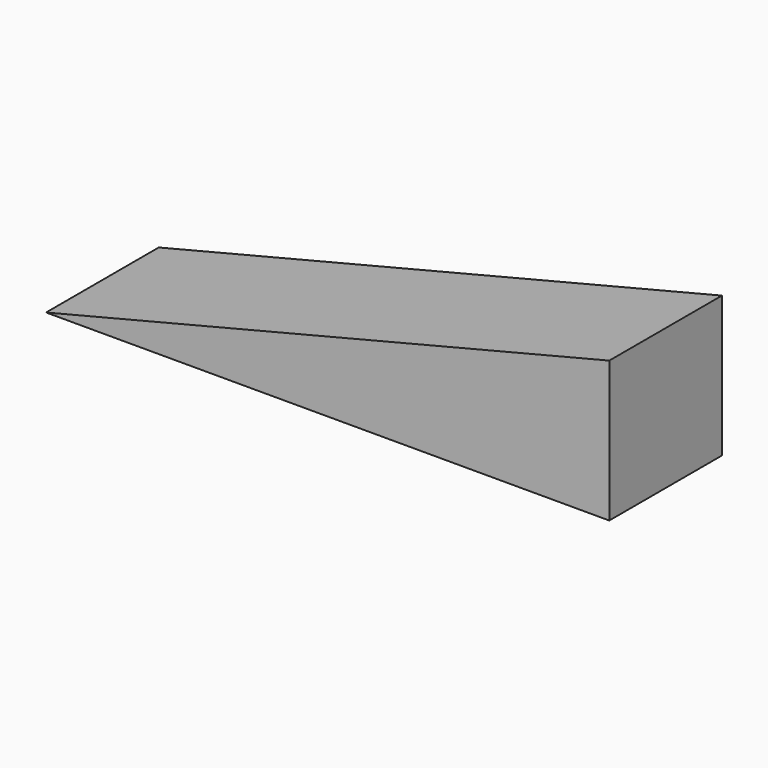
from build123d import *

# Parameters (mm, degrees)
F0_W     = 20
F0_H     = 5
F1_DEPTH = 5
F3_DEPTH = 25


with BuildPart() as f1:
    # F0 (on Top) → F1 (new body)
    with BuildSketch(Plane.XY):
        Rectangle(F0_W, F0_H)
    extrude(amount=F1_DEPTH)

    # F2 (on face) → F3 (cut)
    with BuildSketch(Plane.XZ.offset(2.5)):
        Polygon((-10, 5), (-10, 0), (10, 5), align=None)
    extrude(amount=-F3_DEPTH, mode=Mode.SUBTRACT)


solid = f1.part
